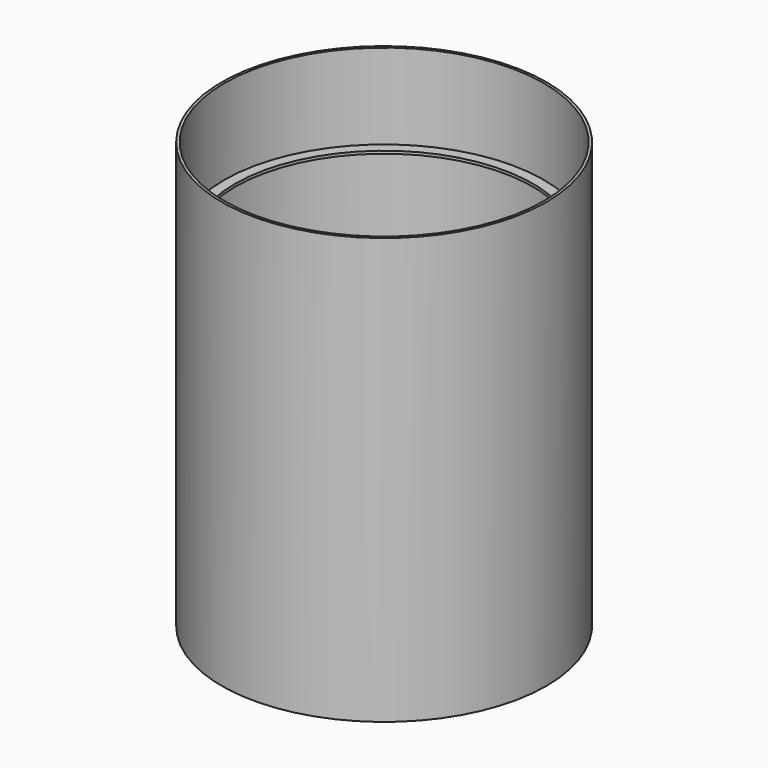
from build123d import *

# Parameters (mm, degrees)
F0_R     = 762
F0_R_2   = 711.2
F1_DEPTH = 12.7
F0_R_3   = 774.7
F2_DEPTH = 1016
F4_R     = 762
F4_R_2   = 711.2
F5_DEPTH = 12.7


with BuildPart() as f1:
    # F0 (on Top) → F1 (new body)
    with BuildSketch(Plane.XY):
        Circle(F0_R)
        Circle(F0_R_2, mode=Mode.SUBTRACT)
    extrude(amount=-F1_DEPTH)


with BuildPart() as f2:
    # F0 (on Top) → F2 (new body, symmetric)
    with BuildSketch(Plane.XY):
        Circle(F0_R_3)
        Circle(F0_R, mode=Mode.SUBTRACT)
    extrude(amount=F2_DEPTH, both=True)


with BuildPart() as f5:
    # F4 (on offset) → F5 (new body)
    with BuildSketch(Plane.XY.offset(609.6)):
        Circle(F4_R)
        Circle(F4_R_2, mode=Mode.SUBTRACT)
    extrude(amount=-F5_DEPTH)


solid = Compound([f1.part, f2.part, f5.part])
